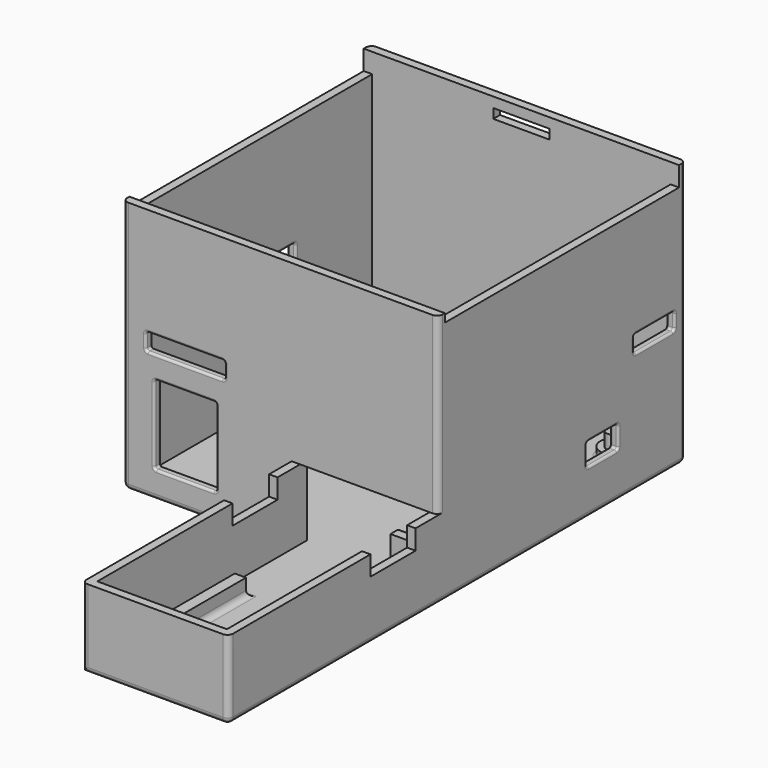
from build123d import *

# Parameters (mm, degrees)
SKETCH033_W                = 48
SKETCH033_H                = 26
PAD015_DEPTH               = 14
THICKNESS002_T             = -1.5
SKETCH031_R                = 2
PAD016_DEPTH               = 3
FILLET013_R                = 1
SKETCH034_W                = 26
SKETCH034_H                = 2
PAD017_DEPTH               = 3
FILLET014_R                = 1
SKETCH035_R                = 0.9
PAD018_DEPTH               = 4
FILLET015_R                = 1
SKETCH036_W                = 23
SKETCH036_H                = 12.5
POCKET011_DEPTH            = 5
SKETCH038_W                = 10
SKETCH038_H                = 3.5
POCKET011003_DEPTH         = 13.001
POCKET011003_DEPTH_BACK    = 13.001
BODY003002_PLACEMENT_ANGLE = 90
SKETCH_R                   = 2.5
SKETCH_W                   = 1.5
SKETCH_H                   = 3
SKETCH_W_2                 = 3
SKETCH_H_2                 = 1.5
EXTRUDE_DEPTH              = 3
SKETCH003_W                = 2.25
SKETCH003_H                = 3
SKETCH003_W_2              = 3
SKETCH003_H_2              = 2.25
EXTRUDE003_DEPTH           = 2
FILLET_R                   = 0.8
SKETCH004_W                = 56
SKETCH004_H                = 55
EXTRUDE004_DEPTH           = 1.5
SKETCH001_R                = 1.4
SKETCH001_W                = 1.5
SKETCH001_H                = 3
SKETCH001_W_2              = 3
SKETCH001_H_2              = 1.5
EXTRUDE001_DEPTH           = 2.5
FILLET017_R                = 0.5
FILLET018_R                = 1
PAD_DEPTH                  = 47
THICKNESS_T                = -1.5
FILLET001_R                = 1
SKETCH005_W                = 7
SKETCH005_H                = 4
POCKET_DEPTH               = 20
SKETCH006_W                = 12
SKETCH006_H                = 9
POCKET001_DEPTH            = 20
SKETCH007_W                = 11
SKETCH007_H                = 14
POCKET002_DEPTH            = 20
SKETCH028_W                = 14
SKETCH028_H                = 3
POCKET008_DEPTH            = 20
SKETCH029_W                = 9
SKETCH029_H                = 3
POCKET009_DEPTH            = 20
FILLET002_R                = 0.4
SKETCH037_W                = 26
SKETCH037_H                = 14
POCKET011002_DEPTH         = 1.5
POCKET011004_DEPTH         = 1.7
POCKET011007_DEPTH         = 5


with BuildPart() as body003002:
    # Sketch033 → Pad015 (new body)
    with BuildSketch(Plane.XY):
        with Locations((7.5, 0)):
            Rectangle(SKETCH033_W, SKETCH033_H)
    extrude(amount=PAD015_DEPTH)

    # Thickness002
    thickness002_openings = [body003002.faces().sort_by_distance(p)[0] for p in [
        (7.5, 0, 14),
    ]]
    offset(amount=THICKNESS002_T, openings=thickness002_openings)

    # Sketch031 → Pad016 (join)
    with BuildSketch(Plane.XY.offset(1.5)):
        with Locations((6.3, -7)):
            Circle(SKETCH031_R)
        with Locations((-7.7, -7)):
            Circle(SKETCH031_R)
    extrude(amount=PAD016_DEPTH)

    # Fillet013
    fillet013_edges = [body003002.edges().sort_by_distance(p)[0] for p in [
        (-9.7, -7, 1.5),
        (4.3, -7, 1.5),
    ]]
    fillet(fillet013_edges, radius=FILLET013_R)

    # Sketch034 → Pad017 (join)
    with BuildSketch(Plane.XY.offset(1.5)):
        with Locations((0, 8.5)):
            Rectangle(SKETCH034_W, SKETCH034_H)
    extrude(amount=PAD017_DEPTH)

    # Fillet014
    fillet014_edges = [body003002.edges().sort_by_distance(p)[0] for p in [
        (0, 7.5, 1.5),
        (-13, 8.5, 1.5),
        (0, 9.5, 1.5),
        (13, 8.5, 1.5),
    ]]
    fillet(fillet014_edges, radius=FILLET014_R)

    # Sketch035 → Pad018 (join)
    with BuildSketch(Plane.XY.offset(4.5)):
        with Locations((-7.7, -7)):
            Circle(SKETCH035_R)
        with Locations((6.3, -7)):
            Circle(SKETCH035_R)
    extrude(amount=PAD018_DEPTH)

    # Fillet015
    fillet015_edges = [body003002.edges().sort_by_distance(p)[0] for p in [
        (-16.5, -13, 7),
        (-16.5, 13, 7),
        (-16.5, 0, 0),
        (7.5, -13, 0),
    ]]
    fillet(fillet015_edges, radius=FILLET015_R)

    # Sketch036 → Pocket011 (cut)
    with BuildSketch(Plane.YZ.offset(30)):
        with Locations((0, 7.75)):
            Rectangle(SKETCH036_W, SKETCH036_H)
    extrude(amount=POCKET011_DEPTH, mode=Mode.SUBTRACT)

    # Sketch038 → Pocket011003 (cut, two sides)
    with BuildSketch(Plane.XZ) as pocket011003_sk:
        with Locations((20, 12.25)):
            Rectangle(SKETCH038_W, SKETCH038_H)
    extrude(amount=-POCKET011003_DEPTH, mode=Mode.SUBTRACT)
    extrude(pocket011003_sk.sketch, amount=POCKET011003_DEPTH_BACK, mode=Mode.SUBTRACT)


with BuildPart() as body003002_1:
    # Body003002 placement: moved
    add(body003002.part.moved(Location((39, -34, 0))).rotate(Axis((39, -34, 0), (0, 0, 1)), BODY003002_PLACEMENT_ANGLE))


with BuildPart() as extrude_body:
    # Sketch → Extrude (new body)
    with BuildSketch(Plane.XY):
        with Locations((44.95, 43.95)):
            Circle(SKETCH_R)
        with Locations((44.95, 3.05)):
            Circle(SKETCH_R)
        with Locations((3.05, 28.7)):
            Circle(SKETCH_R)
        with Locations((-1.25, 28.7)):
            Rectangle(SKETCH_W, SKETCH_H)
        with Locations((43.45, -1.25)):
            Rectangle(SKETCH_W_2, SKETCH_H_2)
        with Locations((49.25, 4.55)):
            Rectangle(SKETCH_W, SKETCH_H)
        with Locations((49.25, 42.45)):
            Rectangle(SKETCH_W, SKETCH_H)
        with Locations((43.45, 48.25)):
            Rectangle(SKETCH_W_2, SKETCH_H_2)
    extrude(amount=EXTRUDE_DEPTH)


with BuildPart() as fillet_body:
    # Sketch003 → Extrude003 (new body)
    with BuildSketch(Plane.XY):
        with Locations((-0.875, 28.7)):
            Rectangle(SKETCH003_W, SKETCH003_H)
        with Locations((43.45, -0.875)):
            Rectangle(SKETCH003_W_2, SKETCH003_H_2)
        with Locations((48.875, 4.55)):
            Rectangle(SKETCH003_W, SKETCH003_H)
        with Locations((48.875, 42.45)):
            Rectangle(SKETCH003_W, SKETCH003_H)
        with Locations((43.45, 47.875)):
            Rectangle(SKETCH003_W_2, SKETCH003_H_2)
    extrude(amount=EXTRUDE003_DEPTH)


with BuildPart() as fillet_body_1:
    # Extrude003 placement: moved
    add(fillet_body.part.moved(Location((0, 0, 5))))

    # Fillet
    fillet_edges = [fillet_body_1.edges().sort_by_distance(p)[0] for p in [
        (43.45, 46.75, 5),
        (43.45, 46.75, 7),
        (47.75, 42.45, 5),
        (47.75, 42.45, 7),
        (43.45, 0.25, 5),
        (43.45, 0.25, 7),
        (0.25, 28.7, 5),
        (0.25, 28.7, 7),
        (47.75, 4.55, 5),
        (47.75, 4.55, 7),
    ]]
    fillet(fillet_edges, radius=FILLET_R)


with BuildPart() as extrude004:
    # Sketch004 → Extrude004 (new body)
    with BuildSketch(Plane.XY):
        with Locations((24, 23.5)):
            Rectangle(SKETCH004_W, SKETCH004_H)
    extrude(amount=EXTRUDE004_DEPTH)


with BuildPart() as fillet018:
    # Sketch001 → Extrude001 (new body)
    with BuildSketch(Plane.XY):
        with Locations((44.95, 43.95)):
            Circle(SKETCH001_R)
        with Locations((44.95, 3.05)):
            Circle(SKETCH001_R)
        with Locations((3.05, 28.7)):
            Circle(SKETCH001_R)
        with Locations((-1.25, 28.7)):
            Rectangle(SKETCH001_W, SKETCH001_H)
        with Locations((43.45, -1.25)):
            Rectangle(SKETCH001_W_2, SKETCH001_H_2)
        with Locations((49.25, 4.55)):
            Rectangle(SKETCH001_W, SKETCH001_H)
        with Locations((49.25, 42.45)):
            Rectangle(SKETCH001_W, SKETCH001_H)
        with Locations((43.45, 48.25)):
            Rectangle(SKETCH001_W_2, SKETCH001_H_2)
    extrude(amount=EXTRUDE001_DEPTH)


with BuildPart() as fillet018_1:
    # Extrude001 placement: moved
    add(fillet018.part.moved(Location((0, 0, 3))))

    # Fusion: union Extrude body, Fillet body, Extrude004
    add(extrude_body.part)
    add(fillet_body_1.part)
    add(extrude004.part)

    # Fillet017
    fillet017_edges = [fillet018_1.edges().sort_by_distance(p)[0] for p in [
        (48.5, 42.45, 1.5),
        (49.25, 40.95, 1.5),
        (50, 42.45, 1.5),
        (49.25, 43.95, 1.5),
        (42.45, 43.95, 1.5),
        (0.55, 28.7, 1.5),
        (41.95, -1.25, 1.5),
        (43.45, -2, 1.5),
        (44.95, -1.25, 1.5),
        (43.45, -0.5, 1.5),
        (42.45, 3.05, 1.5),
        (49.25, 6.05, 1.5),
        (48.5, 4.55, 1.5),
        (49.25, 3.05, 1.5),
        (50, 4.55, 1.5),
        (-1.25, 30.2, 1.5),
        (-2, 28.7, 1.5),
        (-1.25, 27.2, 1.5),
        (-0.5, 28.7, 1.5),
        (41.95, 48.25, 1.5),
        (43.45, 47.5, 1.5),
        (44.95, 48.25, 1.5),
        (43.45, 49, 1.5),
    ]]
    fillet(fillet017_edges, radius=FILLET017_R)

    # Fillet018
    fillet018_edges = [fillet018_1.edges().sort_by_distance(p)[0] for p in [
        (52, -4, 0.75),
        (-4, -4, 0.75),
        (24, -4, 0),
        (52, 51, 0.75),
        (52, 23.5, 0),
        (-4, 51, 0.75),
        (-4, 23.5, 0),
        (24, 51, 0),
    ]]
    fillet(fillet018_edges, radius=FILLET018_R)


with BuildPart() as fusion001:
    # Sketch004 → Pad (new body)
    with BuildSketch(Plane.XY):
        with Locations((24, 23.5)):
            Rectangle(SKETCH004_W, SKETCH004_H)
    extrude(amount=PAD_DEPTH)

    # Thickness
    thickness_openings = [fusion001.faces().sort_by_distance(p)[0] for p in [
        (24, 23.5, 47),
    ]]
    offset(amount=THICKNESS_T, openings=thickness_openings)

    # Fillet001
    fillet001_edges = [fusion001.edges().sort_by_distance(p)[0] for p in [
        (52, -4, 23.5),
        (52, 51, 23.5),
        (-4, 51, 23.5),
        (-4, -4, 23.5),
        (24, -4, 0),
        (-4, 23.5, 0),
        (24, 51, 0),
        (52, 23.5, 0),
    ]]
    fillet(fillet001_edges, radius=FILLET001_R)

    # Sketch005 → Pocket (cut)
    with BuildSketch(Plane.YZ.offset(60)):
        with Locations((32.5, 10)):
            Rectangle(SKETCH005_W, SKETCH005_H)
    extrude(amount=-POCKET_DEPTH, mode=Mode.SUBTRACT)

    # Sketch006 → Pocket001 (cut)
    with BuildSketch(Plane(origin=(-10, 0, 0), x_dir=(0, -1, 0), z_dir=(-1, 0, 0))):
        with Locations((-26.5, 19.5)):
            Rectangle(SKETCH006_W, SKETCH006_H)
    extrude(amount=-POCKET001_DEPTH, mode=Mode.SUBTRACT)

    # Sketch007 → Pocket002 (cut)
    with BuildSketch(Plane.XZ.offset(10)):
        with Locations((7.1, 11.8)):
            Rectangle(SKETCH007_W, SKETCH007_H)
    extrude(amount=-POCKET002_DEPTH, mode=Mode.SUBTRACT)

    # Sketch028 → Pocket008 (cut)
    with BuildSketch(Plane.XZ.offset(10)):
        with Locations((7.1, 24.3)):
            Rectangle(SKETCH028_W, SKETCH028_H)
    extrude(amount=-POCKET008_DEPTH, mode=Mode.SUBTRACT)

    # Sketch029 → Pocket009 (cut)
    with BuildSketch(Plane.YZ.offset(60)):
        with Locations((44, 23)):
            Rectangle(SKETCH029_W, SKETCH029_H)
    extrude(amount=-POCKET009_DEPTH, mode=Mode.SUBTRACT)

    # Fillet002
    fillet002_edges = [fusion001.edges().sort_by_distance(p)[0] for p in [
        (52, 44, 24.5),
        (51.25, 39.5, 24.5),
        (50.5, 44, 24.5),
        (51.25, 48.5, 24.5),
        (52, 32.5, 12),
        (51.25, 29, 12),
        (50.5, 32.5, 12),
        (51.25, 36, 12),
        (52, 36, 10),
        (50.5, 36, 10),
        (51.25, 36, 8),
        (52, 48.5, 23),
        (50.5, 48.5, 23),
        (51.25, 48.5, 21.5),
        (52, 32.5, 8),
        (50.5, 32.5, 8),
        (51.25, 29, 8),
        (52, 29, 10),
        (50.5, 29, 10),
        (52, 44, 21.5),
        (50.5, 44, 21.5),
        (51.25, 39.5, 21.5),
        (52, 39.5, 23),
        (50.5, 39.5, 23),
        (-4, 26.5, 15),
        (-3.25, 20.5, 15),
        (-2.5, 26.5, 15),
        (-3.25, 32.5, 15),
        (-4, 20.5, 19.5),
        (-3.25, 20.5, 24),
        (-2.5, 20.5, 19.5),
        (12.6, -4, 11.8),
        (12.6, -3.25, 18.8),
        (12.6, -2.5, 11.8),
        (12.6, -3.25, 4.8),
        (14.1, -4, 24.3),
        (14.1, -3.25, 22.8),
        (14.1, -2.5, 24.3),
        (14.1, -3.25, 25.8),
        (-4, 32.5, 19.5),
        (-2.5, 32.5, 19.5),
        (-3.25, 32.5, 24),
        (-4, 26.5, 24),
        (-2.5, 26.5, 24),
        (7.1, -4, 18.8),
        (1.6, -3.25, 18.8),
        (7.1, -2.5, 18.8),
        (7.1, -4, 25.8),
        (7.1, -2.5, 25.8),
        (0.1, -3.25, 25.8),
        (1.6, -4, 11.8),
        (1.6, -3.25, 4.8),
        (1.6, -2.5, 11.8),
        (0.1, -4, 24.3),
        (0.1, -2.5, 24.3),
        (0.1, -3.25, 22.8),
        (7.1, -4, 22.8),
        (7.1, -2.5, 22.8),
        (7.1, -4, 4.8),
        (7.1, -2.5, 4.8),
    ]]
    fillet(fillet002_edges, radius=FILLET002_R)

    # Sketch037 → Pocket011002 (cut)
    with BuildSketch(Plane.XZ.offset(4)):
        with Locations((39, 7)):
            Rectangle(SKETCH037_W, SKETCH037_H)
    extrude(amount=-POCKET011002_DEPTH, mode=Mode.SUBTRACT)

    # Sketch040 → Pocket011004 (cut)
    with BuildSketch(Plane.XY.offset(43.5)):
        Polygon((52, -2.5), (-4, -2.5), (-4, 49.5), (19, 49.5), (19, 51), (29, 51), (29, 49.5), (52, 49.5), align=None)
    extrude(amount=POCKET011004_DEPTH, mode=Mode.SUBTRACT)

    # Sketch045 → Pocket011007 (cut)
    with BuildSketch(Plane.XY.offset(45)):
        Polygon((-4, -2.5), (-4, 49.5), (19, 49.5), (29, 49.5), (52, 49.5), (52, -2.5), (52, -4), (-4, -4), align=None)
    extrude(amount=POCKET011007_DEPTH, mode=Mode.SUBTRACT)

    # Fusion001: union Body003002, Fillet018
    add(body003002_1.part)
    add(fillet018_1.part)


solid = fusion001.part
